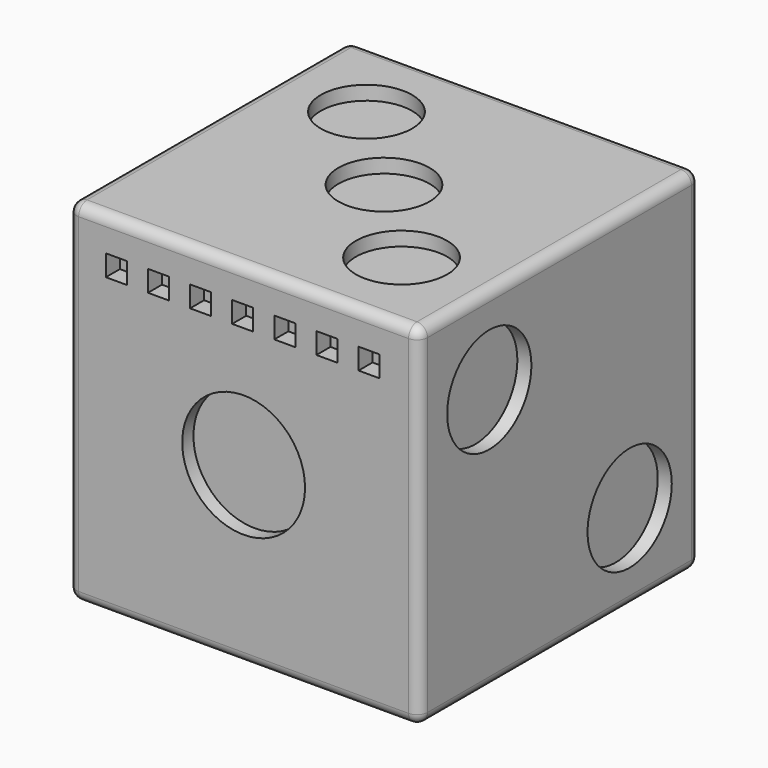
from build123d import *

# Parameters (mm, degrees)
F0_W      = 100
F0_H      = 100
F1_DEPTH  = 50
F2_R      = 17.5
F3_DEPTH  = 4
F4_R      = 15
F5_DEPTH  = 4
F6_R      = 13
F7_DEPTH  = 4
F8_R      = 14.5
F9_DEPTH  = 4
F10_R     = 12.5
F11_DEPTH = 4
F12_R     = 11
F13_DEPTH = 4
F14_R     = 3
F15_W     = 6
F15_H     = 6
F16_DEPTH = 5


with BuildPart() as f1:
    # F0 (on Top) → F1 (new body, symmetric)
    with BuildSketch(Plane.XY):
        Rectangle(F0_W, F0_H)
    extrude(amount=F1_DEPTH, both=True)

    # F2 (on face) → F3 (cut)
    with BuildSketch(Plane.XZ.offset(50)):
        Circle(F2_R)
    extrude(amount=-F3_DEPTH, mode=Mode.SUBTRACT)

    # F4 (on face) → F5 (cut)
    with BuildSketch(Plane.YZ.offset(50)):
        with Locations((-25, 25)):
            Circle(F4_R)
        with Locations((25, -25)):
            Circle(F4_R)
    extrude(amount=-F5_DEPTH, mode=Mode.SUBTRACT)

    # F6 (on face) → F7 (cut)
    with BuildSketch(Plane.XY.offset(50)):
        with Locations((-25, 25)):
            Circle(F6_R)
        with BuildLine():
            Line((-13, 0), (13, 0))
            ThreePointArc((13, 0), (0, 13), (-13, 0))
        make_face()
        with BuildLine():
            ThreePointArc((-13, 0), (0, -13), (13, 0))
            Line((13, 0), (-13, 0))
        make_face()
        with Locations((25, -25)):
            Circle(F6_R)
    extrude(amount=-F7_DEPTH, mode=Mode.SUBTRACT)

    # F8 (on face) → F9 (cut)
    with BuildSketch(Plane(origin=(0, 0, -50), x_dir=(1, 0, 0), z_dir=(0, 0, -1))):
        with Locations((-25, 25)):
            Circle(F8_R)
        with Locations((25, 25)):
            Circle(F8_R)
        with Locations((-25, -25)):
            Circle(F8_R)
        with Locations((25, -25)):
            Circle(F8_R)
    extrude(amount=-F9_DEPTH, mode=Mode.SUBTRACT)

    # F10 (on face) → F11 (cut)
    with BuildSketch(Plane(origin=(-50, 0, 0), x_dir=(0, -1, 0), z_dir=(-1, 0, 0))):
        Circle(F10_R)
        with Locations((25, 25)):
            Circle(F10_R)
        with Locations((-25, 25)):
            Circle(F10_R)
        with Locations((-25, -25)):
            Circle(F10_R)
        with Locations((25, -25)):
            Circle(F10_R)
    extrude(amount=-F11_DEPTH, mode=Mode.SUBTRACT)

    # F12 (on face) → F13 (cut)
    with BuildSketch(Plane(origin=(0, 50, 0), x_dir=(-1, 0, 0), z_dir=(0, 1, 0))):
        with Locations((-25, 0)):
            Circle(F12_R)
        with Locations((-25, 25)):
            Circle(F12_R)
        with Locations((-25, -25)):
            Circle(F12_R)
        with Locations((25, -25)):
            Circle(F12_R)
        with Locations((25, 0)):
            Circle(F12_R)
        with Locations((25, 25)):
            Circle(F12_R)
    extrude(amount=-F13_DEPTH, mode=Mode.SUBTRACT)

    # F14
    f14_edges = [f1.edges().sort_by_distance(p)[0] for p in [
        (50, 0, 50),
        (0, 50, 50),
        (-50, 0, 50),
        (0, -50, 50),
        (-50, -50, 0),
        (0, -50, -50),
        (50, -50, 0),
        (50, 0, -50),
        (0, 50, -50),
        (50, 50, 0),
        (-50, 50, 0),
        (-50, 0, -50),
    ]]
    fillet(f14_edges, radius=F14_R)

    # F15 (on face) → F16 (cut)
    with BuildSketch(Plane.XZ.offset(50)):
        with Locations((-36.2572609186, 37.3459062278)):
            Rectangle(F15_W, F15_H)
        with Locations((-24.2572609186, 37.3459062278)):
            Rectangle(F15_W, F15_H)
        with Locations((-12.2572609186, 37.3459062278)):
            Rectangle(F15_W, F15_H)
        with Locations((-0.2572609186, 37.3459062278)):
            Rectangle(F15_W, F15_H)
        with Locations((11.7427390814, 37.3459062278)):
            Rectangle(F15_W, F15_H)
        with Locations((23.7427390814, 37.3459062278)):
            Rectangle(F15_W, F15_H)
        with Locations((35.7427390814, 37.3459062278)):
            Rectangle(F15_W, F15_H)
    extrude(amount=-F16_DEPTH, mode=Mode.SUBTRACT)


solid = f1.part
